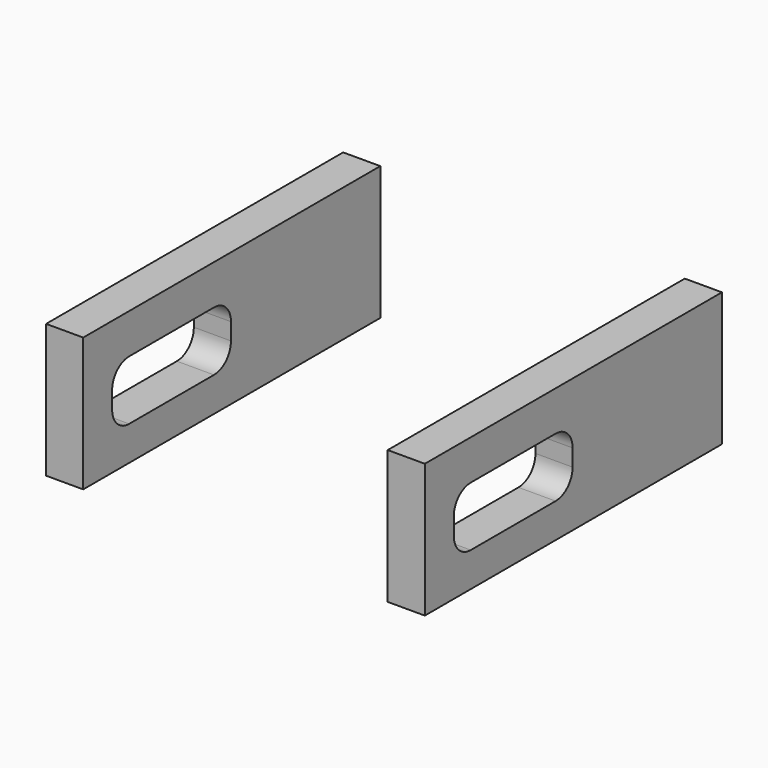
from build123d import *

# Parameters (mm, degrees)
EXTRUDE007_DEPTH = 10
SKETCH009_W      = 0.5
SKETCH009_H      = 1.8
EXTRUDE006_DEPTH = 5


with BuildPart() as extrude007:
    # Sketch010 (on Face1 of Extrude006) → Extrude007 (new body, symmetric)
    with BuildSketch(Plane.YZ.offset(2.55)):
        with BuildLine():
            Line((-16.727232, 5.355817), (-15.299188, 5.355817))
            ThreePointArc((-15.01321, 5.069839), (-15.096971, 5.272056), (-15.299188, 5.355817))
            Line((-15.01321, 5.069839), (-15.01321, 4.841795))
            ThreePointArc((-15.299188, 4.555817), (-15.096971, 4.639578), (-15.01321, 4.841795))
            Line((-15.299188, 4.555817), (-16.727232, 4.555817))
            ThreePointArc((-17.01321, 4.841795), (-16.929449, 4.639578), (-16.727232, 4.555817))
            Line((-17.01321, 4.841795), (-17.01321, 5.069839))
            ThreePointArc((-16.727232, 5.355817), (-16.929449, 5.272056), (-17.01321, 5.069839))
        make_face()
    extrude(amount=EXTRUDE007_DEPTH, both=True)


with BuildPart() as cut002:
    # Sketch009 (on Face3 of Extrude005) → Extrude006 (new body)
    with BuildSketch(Plane.XZ.offset(12.5)):
        with Locations((-2.3, 4.992954)):
            Rectangle(SKETCH009_W, SKETCH009_H)
        with Locations((2.3, 4.992954)):
            Rectangle(SKETCH009_W, SKETCH009_H)
    extrude(amount=EXTRUDE006_DEPTH)

    # Cut002: cut Extrude007
    add(extrude007.part, mode=Mode.SUBTRACT)


solid = cut002.part
